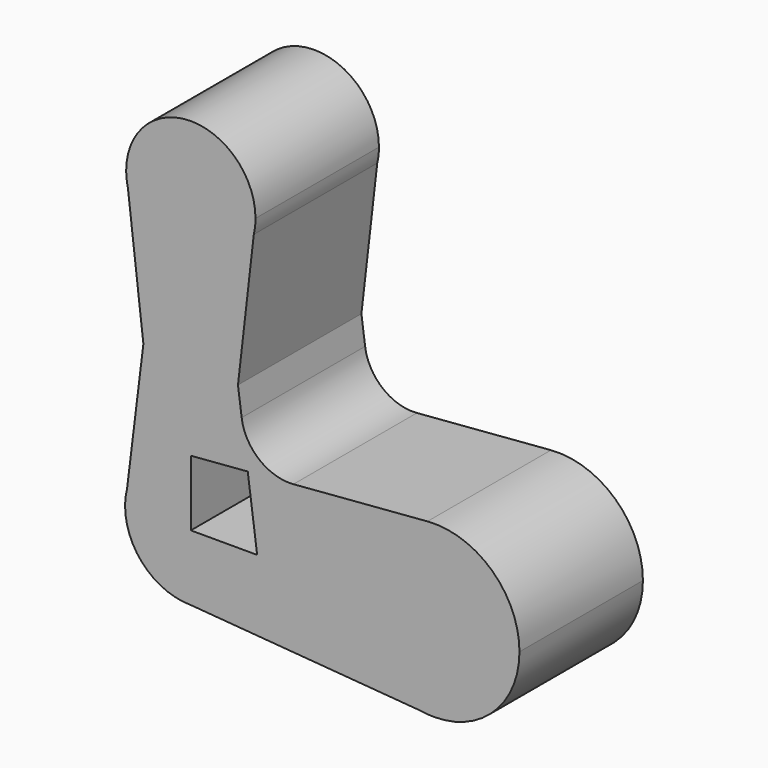
from build123d import *

# Parameters (mm, degrees)
F1_DEPTH = 25.4


with BuildPart() as f1:
    # F0 (on Front) → F1 (new body)
    with BuildSketch(Plane.XZ):
        with BuildLine():
            Line((-10.4988765812, 2.6204621581), (-10.8209625906, 0))
            ThreePointArc((-10.8209625906, 0), (-7.6515760268, -7.6515760268), (0, -10.8209625906))
            Line((0, -10.8209625906), (0, 0))
            Line((0, 0), (0, 10.8209625906))
            ThreePointArc((0, 10.8209625906), (-6.6609799732, 8.5278706126), (-10.4988765812, 2.6204621581))
        make_face()
        with BuildLine():
            ThreePointArc((-10.4988765812, 2.6204621581), (-10.7401392476, 1.3200910309), (-10.8209625906, 0))
            Line((-10.8209625906, 0), (-10.4988765812, 2.6204621581))
        make_face()
        with BuildLine():
            Line((0, 0), (0, -10.8209625906))
            ThreePointArc((0, -10.8209625906), (7.6515760268, -7.6515760268), (10.8209625906, 0))
            Line((10.8209625906, 0), (0, 0))
        make_face()
        with BuildLine():
            ThreePointArc((10.8209625906, 0), (7.6515760268, -7.6515760268), (0, -10.8209625906))
            Line((0, -10.8209625906), (37.8580212766, -13.8381694774))
            ThreePointArc((37.8580212766, -13.8381694774), (29.4117070718, -9.0915153121), (26.0627820591, 0))
            Line((26.0627820591, 0), (10.9174083296, 0))
            Line((10.9174083296, 0), (10.8209625906, 0))
        make_face()
        with BuildLine():
            Line((-7.8115954876, 24.4839340448), (-10.4988765812, 2.6204621581))
            ThreePointArc((-10.4988765812, 2.6204621581), (-6.6609799732, 8.5278706126), (0, 10.8209625906))
            Line((0, 10.8209625906), (0, 16.6723385572))
            ThreePointArc((0, 16.6723385572), (-5.5236321412, 18.9603019037), (-7.8115954876, 24.4839340448))
        make_face()
        with BuildLine():
            Line((40.077868849, -14.0150867899), (37.8580212766, -13.8381694774))
            ThreePointArc((37.8580212766, -13.8381694774), (38.9644256556, -13.9707874504), (40.077868849, -14.0150867899))
        make_face()
        with BuildLine():
            ThreePointArc((26.0627820591, 0), (29.4117070718, -9.0915153121), (37.8580212766, -13.8381694774))
            Line((37.8580212766, -13.8381694774), (40.077868849, -14.0150867899))
            ThreePointArc((40.077868849, -14.0150867899), (49.9880317571, -9.9101629081), (54.092955639, 0))
            ThreePointArc((54.092955639, 0), (49.5803877922, 10.3016887676), (38.948591133, 13.9695164401))
            ThreePointArc((38.948591133, 13.9695164401), (29.7761800814, 9.5025189431), (26.0627820591, 0))
        make_face()
        with BuildLine():
            Line((0, 16.6723385572), (0, 10.8209625906))
            Line((0, 10.8209625906), (9.3681181571, 11.5782691742))
            Line((9.3681181571, 11.5782691742), (8.3675080248, 19.0561023494))
            Line((8.3675080248, 19.0561023494), (7.7605312326, 23.5922059193))
            ThreePointArc((7.7605312326, 23.5922059193), (5.1988077797, 18.6535462591), (0, 16.6723385572))
        make_face()
        with BuildLine():
            Line((-10.3552523985, 46.2189827156), (-7.8115954876, 24.4839340448))
            ThreePointArc((-7.8115954876, 24.4839340448), (-5.5236321412, 30.007566186), (0, 32.2955295325))
            Line((0, 32.2955295325), (0, 38.0335502227))
            ThreePointArc((0, 38.0335502227), (-6.5998590389, 40.3270237246), (-10.3552523985, 46.2189827156))
        make_face()
        with BuildLine():
            ThreePointArc((0, 32.2955295325), (-5.5236321412, 30.007566186), (-7.8115954876, 24.4839340448))
            ThreePointArc((-7.8115954876, 24.4839340448), (-5.5236321412, 18.9603019037), (0, 16.6723385572))
            Line((0, 16.6723385572), (0, 24.4839340448))
            Line((0, 24.4839340448), (0, 32.2955295325))
        make_face()
        with BuildLine():
            Line((9.3681181571, 11.5782691742), (10.7253688405, 1.4351636228))
            Line((10.7253688405, 1.4351636228), (10.9174083296, 0))
            Line((10.9174083296, 0), (26.0627820591, 0))
            ThreePointArc((26.0627820591, 0), (29.7761800814, 9.5025189431), (38.948591133, 13.9695164401))
            Line((38.948591133, 13.9695164401), (16.8880691814, 12.1861723116))
            Line((16.8880691814, 12.1861723116), (9.3681181571, 11.5782691742))
        make_face()
        with BuildLine():
            Line((0, 24.4839340448), (0, 16.6723385572))
            ThreePointArc((0, 16.6723385572), (5.1988077797, 18.6535462591), (7.7605312326, 23.5922059193))
            ThreePointArc((7.7605312326, 23.5922059193), (7.7988189754, 24.0373395397), (7.8115954876, 24.4839340448))
            ThreePointArc((7.8115954876, 24.4839340448), (5.5236321412, 30.007566186), (0, 32.2955295325))
            Line((0, 32.2955295325), (0, 24.4839340448))
        make_face()
        with BuildLine():
            Line((8.3675080248, 19.0561023494), (9.3681181571, 11.5782691742))
            Line((9.3681181571, 11.5782691742), (16.8880691814, 12.1861723116))
            ThreePointArc((16.8880691814, 12.1861723116), (11.2573733608, 13.9214538086), (8.3675080248, 19.0561023494))
        make_face()
        with BuildLine():
            Line((0, 38.0335502227), (0, 32.2955295325))
            ThreePointArc((0, 32.2955295325), (5.5236321412, 30.007566186), (7.8115954876, 24.4839340448))
            ThreePointArc((7.8115954876, 24.4839340448), (7.7988189754, 24.0373395397), (7.7605312326, 23.5922059193))
            Line((7.7605312326, 23.5922059193), (10.3654649975, 46.2624226171))
            ThreePointArc((10.3654649975, 46.2624226171), (6.6173485154, 40.3408783019), (0, 38.0335502227))
        make_face()
        with BuildLine():
            Line((-10.6428437034, 48.6763939261), (-10.3552523985, 46.2189827156))
            ThreePointArc((-10.3552523985, 46.2189827156), (-6.5998590389, 40.3270237246), (0, 38.0335502227))
            ThreePointArc((0, 38.0335502227), (6.6173485154, 40.3408783019), (10.3654649975, 46.2624226171))
            Line((10.3654649975, 46.2624226171), (10.6428437034, 48.6763939261))
            ThreePointArc((10.6428437034, 48.6763939261), (0, 59.3192376296), (-10.6428437034, 48.6763939261))
        make_face()
        with BuildLine():
            ThreePointArc((-10.6428437034, 48.6763939261), (-10.5707013694, 47.4393027193), (-10.3552523985, 46.2189827156))
            Line((-10.3552523985, 46.2189827156), (-10.6428437034, 48.6763939261))
        make_face()
        with BuildLine():
            Line((10.6428437034, 48.6763939261), (10.3654649975, 46.2624226171))
            ThreePointArc((10.3654649975, 46.2624226171), (10.5732716313, 47.4614663123), (10.6428437034, 48.6763939261))
        make_face()
    extrude(amount=F1_DEPTH)


solid = f1.part
